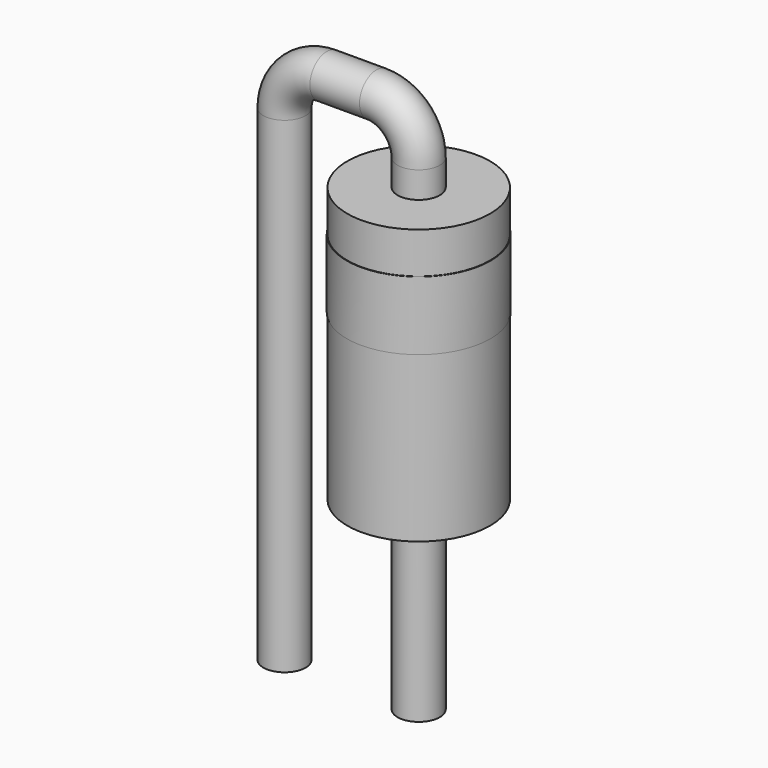
from build123d import *

# Parameters (mm, degrees)
SKETCH001_R = 0.4
SKETCH002_W = 1.35
SKETCH002_H = 5.2
SKETCH003_W = 1.36
SKETCH003_H = 1.3


with BuildPart() as sweep_body:
    # Sweep: sweep along a path in Sketch
    with BuildLine(Plane.XZ) as sweep_path:
        Line((0, -3), (0, 6.2))
        ThreePointArc((0, 6.2), (0.234315, 6.765685), (0.8, 7))
        Line((0.8, 7), (1.74, 7))
        ThreePointArc((1.74, 7), (2.305685, 6.765685), (2.54, 6.2))
        Line((2.54, 6.2), (2.54, -3))
    # Sketch001 → Sweep (sweep)
    with BuildSketch(Plane.XY):
        Circle(SKETCH001_R)
    sweep(path=sweep_path.line)


with BuildPart() as revolution:
    # Sketch002 → Revolution (revolve)
    with BuildSketch(Plane.XZ):
        with Locations((3.215, 3.1)):
            Rectangle(SKETCH002_W, SKETCH002_H)
    revolve(axis=Axis((2.54, 0, 0.5), (0, 0, 1)))


with BuildPart() as revolution001:
    # Sketch003 → Revolution001 (revolve)
    with BuildSketch(Plane.XZ):
        with Locations((3.22, 4.27)):
            Rectangle(SKETCH003_W, SKETCH003_H)
    revolve(axis=Axis((2.54, 0, 3.62), (0, 0, 1)))


solid = Compound([sweep_body.part, revolution.part, revolution001.part])
